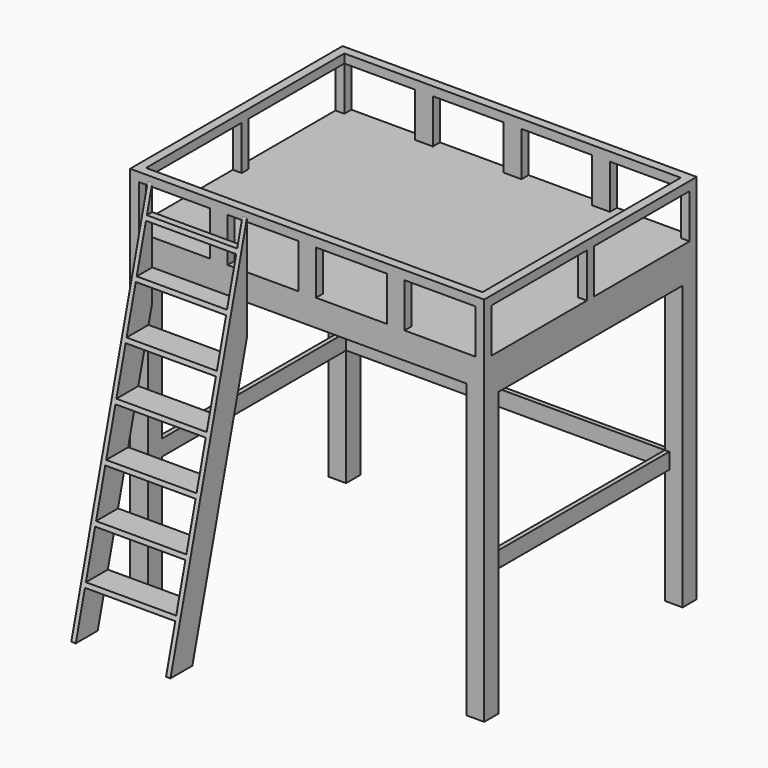
from build123d import *

# Parameters (mm, degrees)
F1_DEPTH      = 1500
F3_W          = 1900
F3_H          = 1400
F4_DEPTH      = 300
F5_W          = 400
F5_H          = 250
F6_DEPTH      = 1500.001
F7_W          = 675
F7_H          = 250
F8_DEPTH      = 1950.001
F8_DEPTH_BACK = 50.001
F9_W          = 1300
F9_H          = 1600
F10_DEPTH     = 2000.001
F14_DEPTH     = 560
F15_W         = 510
F15_H         = 250
F16_DEPTH     = 540.001
F18_DEPTH     = 90


with BuildPart() as f1:
    # F0 (on Front) → F1 (new body)
    with BuildSketch(Plane.XZ):
        Polygon((-1000, 1800), (-1000, 0), (-900, 0), (-900, 1650), (0, 1650), (0, 1800), align=None)
    extrude(amount=F1_DEPTH)

    # F2: F1 across plane


with BuildPart() as f1_1:
    add(f1.part)
    add(f1.part.mirror(Plane.YZ))

    # F3 (on face) → F4 (join)
    with BuildSketch(Plane.XY.offset(1800)):
        Polygon((-1000, -1500), (1000, -1500), (1000, -1450), (1000, 0), (-1000, 0), (-1000, -50), align=None)
        with Locations((0, -750)):
            Rectangle(F3_W, F3_H, mode=Mode.SUBTRACT)
    extrude(amount=F4_DEPTH)

    # F5 (on face) → F6 (cut, through all)
    with BuildSketch(Plane.XZ.offset(1500)):
        with Locations((-750, 1925)):
            Rectangle(F5_W, F5_H)
        with Locations((-250, 1925)):
            Rectangle(F5_W, F5_H)
        with Locations((250, 1925)):
            Rectangle(F5_W, F5_H)
        with Locations((750, 1925)):
            Rectangle(F5_W, F5_H)
        with Locations((1250, 1925)):
            Rectangle(F5_W, F5_H)
    extrude(amount=-F6_DEPTH, mode=Mode.SUBTRACT)

    # F7 (on face) → F8 (cut, two sides)
    with BuildSketch(Plane.YZ.offset(-950)) as f8_sk:
        with Locations((-1112.5, 1925)):
            Rectangle(F7_W, F7_H)
        with Locations((-387.5, 1925)):
            Rectangle(F7_W, F7_H)
    extrude(amount=F8_DEPTH, mode=Mode.SUBTRACT)
    extrude(f8_sk.sketch, amount=-F8_DEPTH_BACK, mode=Mode.SUBTRACT)

    # F9 (on face) → F10 (cut, through all)
    with BuildSketch(Plane(origin=(-1000, 0, 0), x_dir=(0, -1, 0), z_dir=(-1, 0, 0))):
        with Locations((750, 800)):
            Rectangle(F9_W, F9_H)
    extrude(amount=-F10_DEPTH, mode=Mode.SUBTRACT)

    # F17 (on offset) → F18 (join)
    with BuildSketch(Plane.XY.offset(660)):
        Polygon((-925, -75), (-925, -1400), (-900, -1400), (-900, -100), (900, -100), (900, -1400), (925, -1400), (925, -75), align=None)
    extrude(amount=F18_DEPTH)


with BuildPart() as f14:
    # F13 (on offset) → F14 (new body)
    with BuildSketch(Plane.YZ.offset(-900)):
        Polygon((-1500, 1475.7567837998), (-1500, 2070), (-2040, 0), (-1884.9800305565, 0), align=None)
    extrude(amount=F14_DEPTH)

    # F15 (on face) → F16 (cut, through all)
    with BuildSketch(Plane.XZ.offset(1500)):
        with Locations((-620, 125)):
            Rectangle(F15_W, F15_H)
        with Locations((-620, 400)):
            Rectangle(F15_W, F15_H)
        with Locations((-620, 675)):
            Rectangle(F15_W, F15_H)
        with Locations((-620, 950)):
            Rectangle(F15_W, F15_H)
        with Locations((-620, 1225)):
            Rectangle(F15_W, F15_H)
        with Locations((-620, 1500)):
            Rectangle(F15_W, F15_H)
        with Locations((-620, 1775)):
            Rectangle(F15_W, F15_H)
        with Locations((-620, 2050)):
            Rectangle(F15_W, F15_H)
    extrude(amount=F16_DEPTH, mode=Mode.SUBTRACT)


solid = Compound([f1_1.part, f14.part])
